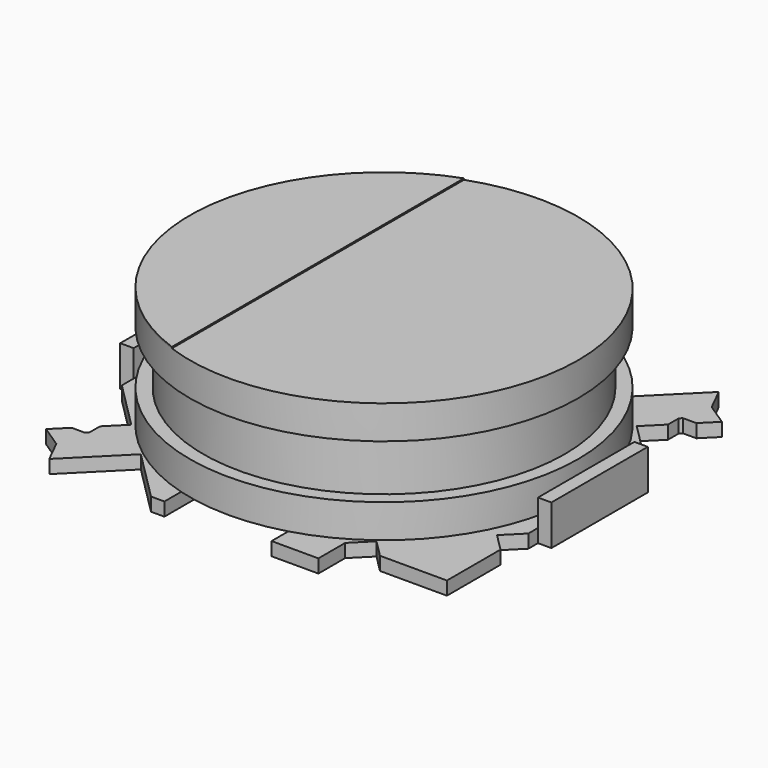
from build123d import *

# Parameters (mm, degrees)
PAD006_DEPTH                   = 0.01
PAD_DEPTH                      = 0.1
PART_MIRRORING_PLACEMENT_ANGLE = 180
SKETCH002_W                    = 0.1
SKETCH002_H                    = 0.9
PAD002_DEPTH                   = 0.2
SKETCH004_R                    = 1.35
PAD004_DEPTH                   = 0.4
SKETCH005_R                    = 1.45
PAD005_DEPTH                   = 0.25
SKETCH003_R                    = 1.45
PAD003_DEPTH                   = 0.25
SKETCH001_W                    = 0.1
SKETCH001_H                    = 0.9
PAD001_DEPTH                   = 0.2


with BuildPart() as pad006:
    # Sketch006 → Pad006 (new body)
    with BuildSketch(Plane.XY.offset(1.01)):
        with BuildLine():
            ThreePointArc((-0.49376, 1.363342), (-1.45, 0), (-0.49376, -1.363342))
            Line((-0.49376, 1.363342), (-0.49376, -1.363342))
        make_face()
    extrude(amount=-PAD006_DEPTH)


with BuildPart() as pad:
    # Sketch → Pad (new body)
    with BuildSketch(Plane.XY):
        Polygon((0.4, -1.55), (0.75, -1.55), (0.75, -1.3), (0.88, -1.17), (1.01, -1.3), (1.51, -1.3), (1.51, -0.8), (1.38, -0.67), (1.51, -0.54), (1.51, -0.45), (1.61, -0.45), (1.61, 0.45), (1.51, 0.45), (1.51, 0.56), (1.156447, 0.913553), (1.286256, 1.043363), (1.286256, 1.143363), (1.303934, 1.161041), (1.403934, 1.161041), (1.51, 1.267107), (1.347099, 1.37506), (1.26, 1.55), (0.88, 1.17), (0.5, 1.55), (0.4, 1.55), align=None)
    extrude(amount=PAD_DEPTH)


with BuildPart() as pad002:
    # Part__Mirroring: instance of Pad
    add(pad.part.mirror(Plane(origin=(0, 0, 0), x_dir=(0, -1, 0), z_dir=(1, 0, 0))))


with BuildPart() as pad002_1:
    # Part__Mirroring placement: moved
    add(pad002.part.moved(Location((0, 0, 0.1))).rotate(Axis((0, 0, 0.1), (1, 0, 0)), PART_MIRRORING_PLACEMENT_ANGLE))

    # Sketch002 → Pad002 (new body)
    with BuildSketch(Plane.XY.offset(0.1)):
        with Locations((-1.56, 0)):
            Rectangle(SKETCH002_W, SKETCH002_H)
    extrude(amount=PAD002_DEPTH)


with BuildPart() as pad004:
    # Sketch004 → Pad004 (new body)
    with BuildSketch(Plane.XY.offset(0.35)):
        Circle(SKETCH004_R)
    extrude(amount=PAD004_DEPTH)


with BuildPart() as pad005:
    # Sketch005 → Pad005 (new body)
    with BuildSketch(Plane.XY.offset(0.75)):
        Circle(SKETCH005_R)
    extrude(amount=PAD005_DEPTH)


with BuildPart() as pad003:
    # Sketch003 → Pad003 (new body)
    with BuildSketch(Plane.XY.offset(0.1)):
        Circle(SKETCH003_R)
    extrude(amount=PAD003_DEPTH)


with BuildPart() as obj1:
    # Pad001 base: copy of Pad
    add(pad.part)

    # Sketch001 → Pad001 (new body)
    with BuildSketch(Plane.XY.offset(0.1)):
        with Locations((1.56, 0)):
            Rectangle(SKETCH001_W, SKETCH001_H)
    extrude(amount=PAD001_DEPTH)

    # Fusion: union Pad006, Pad002, Pad004, Pad005, Pad003
    add(pad006.part)
    add(pad002_1.part)
    add(pad004.part)
    add(pad005.part)
    add(pad003.part)


solid = obj1.part
